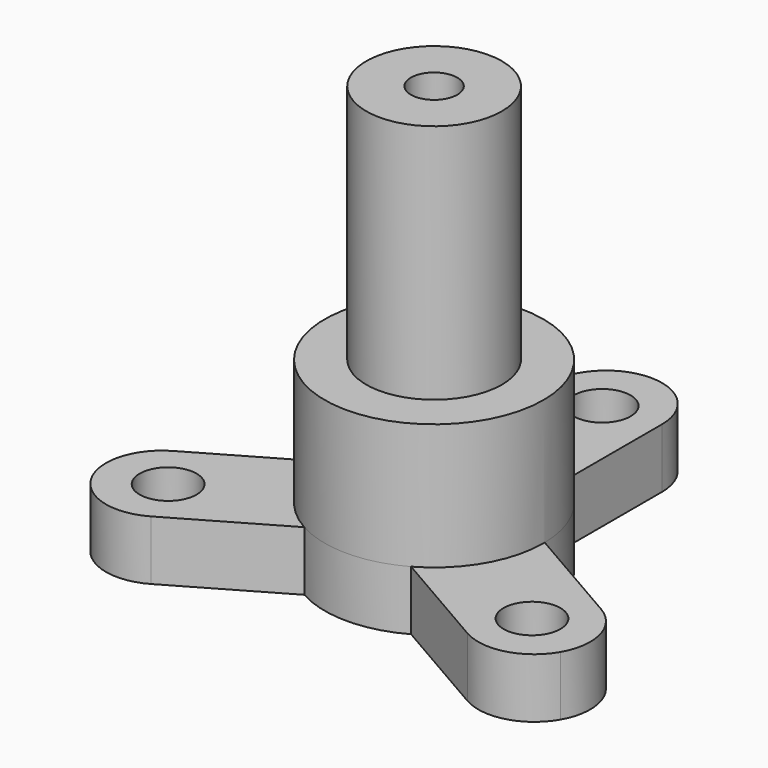
from build123d import *

# Parameters (mm, degrees)
F0_R     = 0.8255
F1_DEPTH = 1.7272
F2_R     = 3.175
F3_DEPTH = 3.6576
F4_R     = 1.9685
F5_DEPTH = 6.985
F6_R     = 0.6731
F7_DEPTH = 12.3708
F8_R     = 1.6256
F9_DEPTH = 4.572


with BuildPart() as f1:
    # F0 (on Top) → F1 (new body)
    with BuildSketch(Plane.XY):
        with BuildLine():
            ThreePointArc((-1.549093, -2.77145), (0, -3.175), (1.549093, -2.77145))
            Line((1.549093, -2.77145), (4.587475, -4.525661))
            ThreePointArc((4.587475, -4.525661), (5.821011, -4.688059), (6.808086, -3.93065))
            ThreePointArc((6.808086, -3.93065), (6.970484, -2.697114), (6.213075, -1.710039))
            Line((6.213075, -1.710039), (3.174693, 0.044171))
            ThreePointArc((3.174693, 0.044171), (2.749631, 1.5875), (1.6256, 2.727279))
            Line((1.6256, 2.727279), (1.6256, 6.2357))
            ThreePointArc((1.6256, 6.2357), (1.149473, 7.385173), (0, 7.8613))
            ThreePointArc((0, 7.8613), (-1.149473, 7.385173), (-1.6256, 6.2357))
            Line((-1.6256, 6.2357), (-1.6256, 2.727279))
            ThreePointArc((-1.6256, 2.727279), (-2.749631, 1.5875), (-3.174693, 0.044171))
            Line((-3.174693, 0.044171), (-6.213075, -1.710039))
            ThreePointArc((-6.213075, -1.710039), (-6.970484, -2.697114), (-6.808086, -3.93065))
            ThreePointArc((-6.808086, -3.93065), (-5.821011, -4.688059), (-4.587475, -4.525661))
            Line((-4.587475, -4.525661), (-1.549093, -2.77145))
        make_face()
        with Locations((-5.279291, -3.048)):
            Circle(F0_R, mode=Mode.SUBTRACT)
        with Locations((5.279291, -3.048)):
            Circle(F0_R, mode=Mode.SUBTRACT)
        with Locations((0, 6.096)):
            Circle(F0_R, mode=Mode.SUBTRACT)
    extrude(amount=F1_DEPTH)

    # F2 (on face) → F3 (join)
    with BuildSketch(Plane.XY.offset(1.7272)):
        Circle(F2_R)
    extrude(amount=F3_DEPTH)

    # F4 (on face) → F5 (join)
    with BuildSketch(Plane.XY.offset(5.3848)):
        Circle(F4_R)
    extrude(amount=F5_DEPTH)

    # F6 (on Top) → F7 (cut, through all)
    with BuildSketch(Plane.XY):
        Circle(F6_R)
    extrude(amount=F7_DEPTH, mode=Mode.SUBTRACT)

    # F8 (on face) → F9 (cut)
    with BuildSketch(Plane(origin=(0, 0, 0), x_dir=(1, 0, 0), z_dir=(0, 0, -1))):
        Circle(F8_R)
    extrude(amount=-F9_DEPTH, mode=Mode.SUBTRACT)


solid = f1.part
